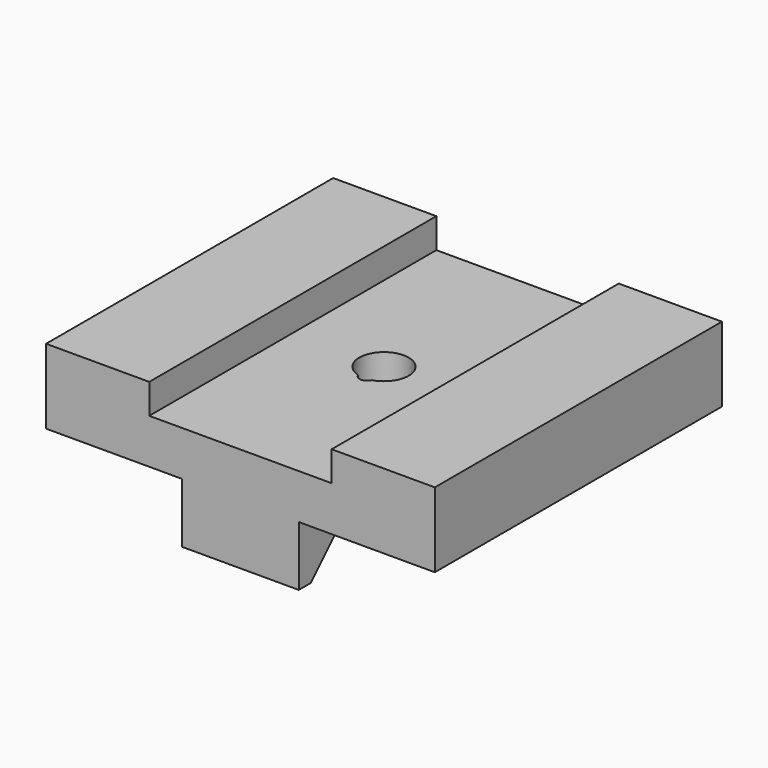
from build123d import *

# Parameters (mm, degrees)
CYLINDER066_R      = 0.5
CYLINDER066_DEPTH  = 10
CYLINDER003_R      = 1.65
CYLINDER003_DEPTH  = 10
BOX167_W           = 7.8
BOX167_H           = 5
BOX167_DEPTH       = 5
CHAMFER008002_SIZE = 4
BOX164_W           = 7.8
BOX164_H           = 5
BOX164_DEPTH       = 4
BOX165_W           = 7.8
BOX165_H           = 5
BOX165_DEPTH       = 4
BOX040_W           = 12.2
BOX040_H           = 24
BOX040_DEPTH       = 2
BOX058_W           = 7
BOX058_H           = 24
BOX058_DEPTH       = 5
BOX166_W           = 7.8
BOX166_H           = 24
BOX166_DEPTH       = 0.5
BOX060_W           = 7
BOX060_H           = 24
BOX060_DEPTH       = 5
BOX010_W           = 26
BOX010_H           = 24
BOX010_DEPTH       = 3


with BuildPart() as rail_bolt024:
    # Cylinder066 → Cylinder066 (new body)
    with BuildSketch(Plane(origin=(0, 50.6, -4), x_dir=(1, 0, 0), z_dir=(0, 0, 1))):
        Circle(CYLINDER066_R)
    extrude(amount=CYLINDER066_DEPTH)


with BuildPart() as rail_bolt001:
    # Cylinder003 → Cylinder003 (new body)
    with BuildSketch(Plane(origin=(0, 52, -4), x_dir=(1, 0, 0), z_dir=(0, 0, 1))):
        Circle(CYLINDER003_R)
    extrude(amount=CYLINDER003_DEPTH)


with BuildPart() as chamfer008002:
    # Box167 → Box167 (new body)
    with BuildSketch(Plane(origin=(-3.9, 68, -5), x_dir=(1, 0, 0), z_dir=(0, 0, 1))):
        with Locations((3.9, 2.5)):
            Rectangle(BOX167_W, BOX167_H)
    extrude(amount=BOX167_DEPTH)

    # Chamfer008002
    chamfer008002_edges = [chamfer008002.edges().sort_by_distance(p)[0] for p in [
        (0, 68, 0),
    ]]
    chamfer(chamfer008002_edges, length=CHAMFER008002_SIZE)


with BuildPart() as chamfer008002_1:
    # Chamfer008002 placement: moved
    add(chamfer008002.part.moved(Location((0, -27, 0))))


with BuildPart() as cut001003002038:
    # Box164 → Box164 (new body)
    with BuildSketch(Plane(origin=(-3.9, 40, -4), x_dir=(1, 0, 0), z_dir=(0, 0, 1))):
        with Locations((3.9, 2.5)):
            Rectangle(BOX164_W, BOX164_H)
    extrude(amount=BOX164_DEPTH)

    # Cut001003002038: cut Chamfer008002
    add(chamfer008002_1.part, mode=Mode.SUBTRACT)


with BuildPart() as cube025:
    # Box165 → Box165 (new body)
    with BuildSketch(Plane(origin=(-3.9, 59, -4), x_dir=(1, 0, 0), z_dir=(0, 0, 1))):
        with Locations((3.9, 2.5)):
            Rectangle(BOX165_W, BOX165_H)
    extrude(amount=BOX165_DEPTH)


with BuildPart() as f_01_cut_out002:
    # Box040 → Box040 (new body)
    with BuildSketch(Plane(origin=(-6.1, 40, 3), x_dir=(1, 0, 0), z_dir=(0, 0, 1))):
        with Locations((6.1, 12)):
            Rectangle(BOX040_W, BOX040_H)
    extrude(amount=BOX040_DEPTH)


with BuildPart() as box058:
    # Box058 → Box058 (new body)
    with BuildSketch(Plane(origin=(6, 40, 0), x_dir=(1, 0, 0), z_dir=(0, 0, 1))):
        with Locations((3.5, 12)):
            Rectangle(BOX058_W, BOX058_H)
    extrude(amount=BOX058_DEPTH)


with BuildPart() as cube026:
    # Box166 → Box166 (new body)
    with BuildSketch(Plane(origin=(-3.9, 40, -0.5), x_dir=(1, 0, 0), z_dir=(0, 0, 1))):
        with Locations((3.9, 12)):
            Rectangle(BOX166_W, BOX166_H)
    extrude(amount=BOX166_DEPTH)


with BuildPart() as fusion028:
    # Box060 → Box060 (new body)
    with BuildSketch(Plane(origin=(-13, 40, 0), x_dir=(1, 0, 0), z_dir=(0, 0, 1))):
        with Locations((3.5, 12)):
            Rectangle(BOX060_W, BOX060_H)
    extrude(amount=BOX060_DEPTH)

    # Fusion027: union Box058, Cube026
    add(box058.part)
    add(cube026.part)

    # Cut001003002037: cut 01-cut-out002
    add(f_01_cut_out002.part, mode=Mode.SUBTRACT)

    # Fusion028: union Cut001003002038, Cube025
    add(cut001003002038.part)
    add(cube025.part)


with BuildPart() as cut001003002040:
    # Box010 → Box010 (new body)
    with BuildSketch(Plane(origin=(-13, 40, 0), x_dir=(1, 0, 0), z_dir=(0, 0, 1))):
        with Locations((13, 12)):
            Rectangle(BOX010_W, BOX010_H)
    extrude(amount=BOX010_DEPTH)

    # Fusion029: union Fusion028
    add(fusion028.part)

    # Cut001003002039: cut rail-bolt001
    add(rail_bolt001.part, mode=Mode.SUBTRACT)

    # Cut001003002040: cut rail-bolt024
    add(rail_bolt024.part, mode=Mode.SUBTRACT)


solid = cut001003002040.part
